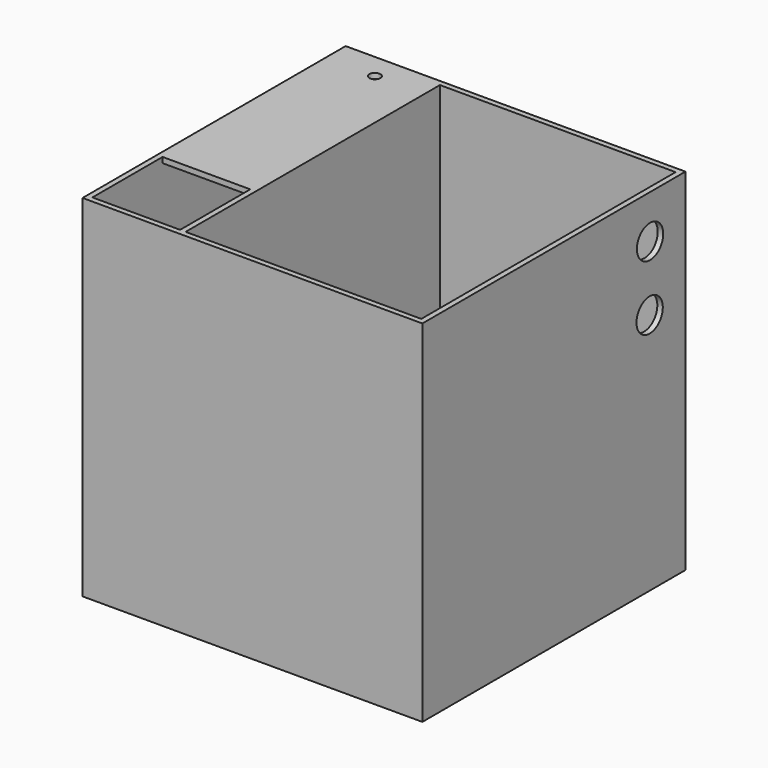
from build123d import *

# Parameters (mm, degrees)
F0_W      = 393.7
F0_H      = 381
F1_DEPTH  = 406.4
F2_W      = 381
F2_H      = 368.3
F3_DEPTH  = 400.05
F4_W      = 6.35
F4_H      = 368.3
F5_DEPTH  = 374.65
F6_W      = 101.6
F6_H      = 266.7
F7_DEPTH  = 6.35
F8_R      = 6.35
F9_DEPTH  = 6.35
F10_R     = 19.05
F11_DEPTH = 6.35
F12_R     = 19.05
F13_DEPTH = 6.35


with BuildPart() as f1:
    # F0 (on Top) → F1 (new body)
    with BuildSketch(Plane.XY):
        with Locations((-3.9738783777, -2.0195368604)):
            Rectangle(F0_W, F0_H)
    extrude(amount=-F1_DEPTH)

    # F2 (on face) → F3 (cut)
    with BuildSketch(Plane.XY):
        with Locations((-3.9738783777, -2.0195368604)):
            Rectangle(F2_W, F2_H)
    extrude(amount=-F3_DEPTH, mode=Mode.SUBTRACT)

    # F4 (on face) → F5 (join)
    with BuildSketch(Plane.XY):
        with Locations((-89.6988783777, -2.0195368604)):
            Rectangle(F4_W, F4_H)
    extrude(amount=-F5_DEPTH)

    # F6 (on face) → F7 (join)
    with BuildSketch(Plane.XY):
        with Locations((-143.6738783777, 48.7804631396)):
            Rectangle(F6_W, F6_H)
    extrude(amount=-F7_DEPTH)

    # F8 (on face) → F9 (cut)
    with BuildSketch(Plane.XY):
        with Locations((-143.3922201395, 159.0605080128)):
            Circle(F8_R)
    extrude(amount=-F9_DEPTH, mode=Mode.SUBTRACT)

    # F10 (on face) → F11 (cut)
    with BuildSketch(Plane.YZ.offset(192.8761216223)):
        with Locations((136.6306692362, -125.1103579998)):
            Circle(F10_R)
    extrude(amount=-F11_DEPTH, mode=Mode.SUBTRACT)

    # F12 (on face) → F13 (cut)
    with BuildSketch(Plane.YZ.offset(192.8761216223)):
        with Locations((137.2144669294, -50.3851957619)):
            Circle(F12_R)
    extrude(amount=-F13_DEPTH, mode=Mode.SUBTRACT)


solid = f1.part
